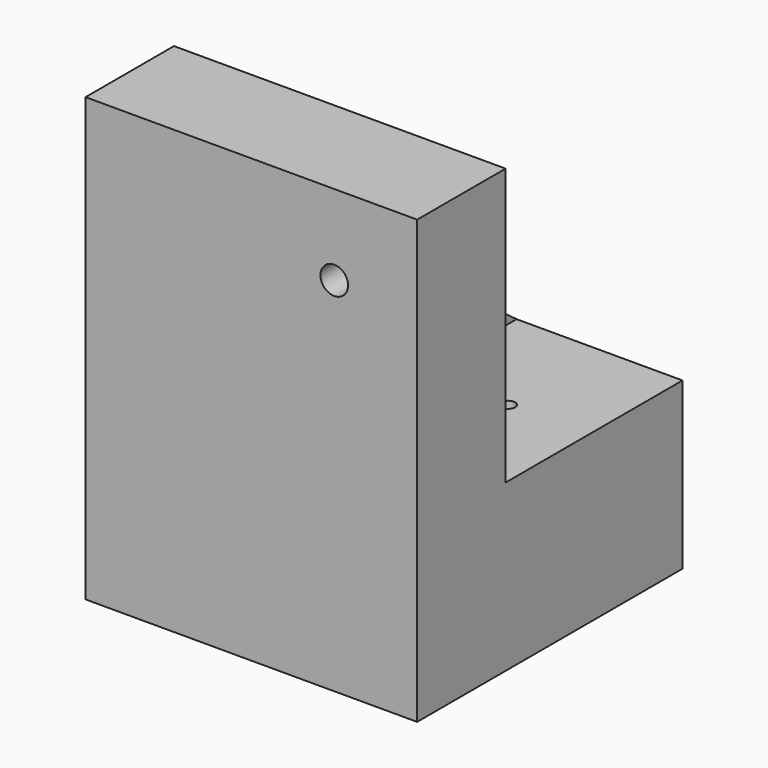
from build123d import *

# Parameters (mm, degrees)
F1_DEPTH = 152.4
F2_W     = 101.6
F2_H     = 76.2
F3_DEPTH = 25.4
F4_W     = 76.2
F4_H     = 101.6
F5_DEPTH = 76.2
F7_D     = 6.35
F9_DEPTH = 76.2
F11_D    = 12.7


with BuildPart() as f1:
    # F0 (on Right) → F1 (new body)
    with BuildSketch(Plane.YZ):
        Polygon((0, 100.770188), (-50.8, 100.770188), (-50.8, -102.429812), (101.6, -102.429812), (101.6, -51.629812), (0, -51.629812), align=None)
    extrude(amount=F1_DEPTH)

    # F2 (on face) → F3 (join)
    with BuildSketch(Plane.XY.offset(-51.629812)):
        with Locations((101.6, 63.5)):
            Rectangle(F2_W, F2_H)
        Polygon((152.4, 25.4), (50.8, 25.4), (50.8, 101.6), (0, 101.6), (0, 0), (152.4, 0), align=None)
    extrude(amount=F3_DEPTH)

    # F4 (on face) → F5 (join)
    with BuildSketch(Plane.XY.offset(-26.229812)):
        with Locations((38.1, 50.8)):
            Rectangle(F4_W, F4_H)
    extrude(amount=F5_DEPTH)

    # F7 (through all)
    with Locations(Plane.XY.offset(-26.229812)):
        with Locations((115.396917, 47.733858)):
            Hole(F7_D / 2)

    # F8 (on face) → F9 (cut)
    with BuildSketch(Plane.YZ.offset(76.2)):
        Polygon((101.6, 49.970188), (0, 49.970188), (101.6, -26.229812), align=None)
    extrude(amount=-F9_DEPTH, mode=Mode.SUBTRACT)

    # F11 (through all)
    with Locations(Plane(origin=(0, 0, 0), x_dir=(-1, 0, 0), z_dir=(0, 1, 0))):
        with Locations((-114.3, 63.836917)):
            Hole(F11_D / 2)


solid = f1.part
